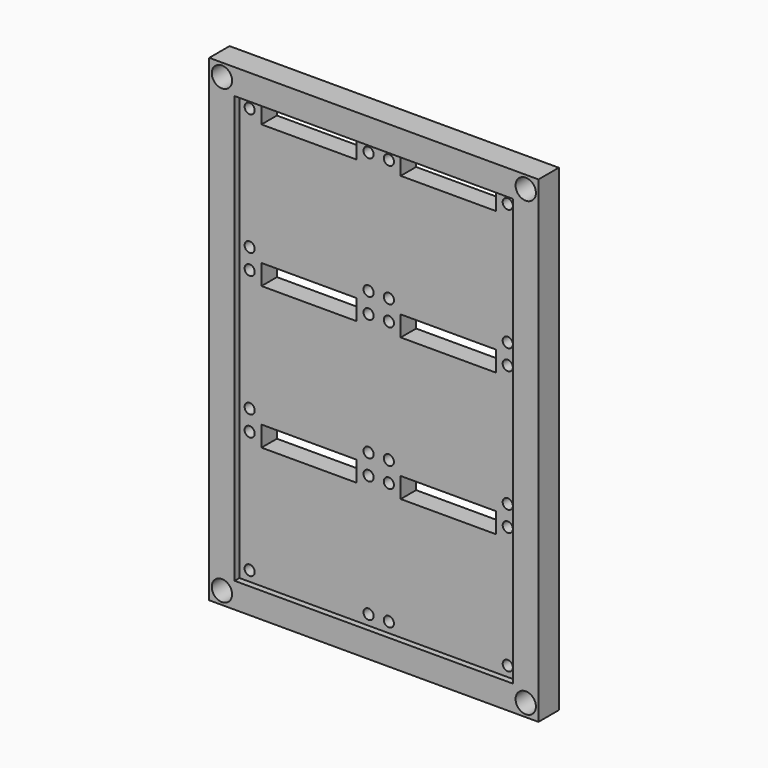
from build123d import *

# Parameters (mm, degrees)
SKETCH_W        = 64.8
SKETCH_H        = 94
PAD_DEPTH       = 5
POCKET_DEPTH    = 1.2
SKETCH002_R     = 1
POCKET001_DEPTH = 3.801
SKETCH003_W     = 18.75
SKETCH003_H     = 4
POCKET002_DEPTH = 3.801
SKETCH004_R     = 2
POCKET003_DEPTH = 5.001


with BuildPart() as part:
    # Sketch → Pad (new body)
    with BuildSketch(Plane.XZ):
        with Locations((32.4, 47)):
            Rectangle(SKETCH_W, SKETCH_H)
    extrude(amount=PAD_DEPTH)

    # Sketch001 (on Face6 of Pad) → Pocket (cut)
    with BuildSketch(Plane.XZ.offset(5)):
        Polygon((5, 5), (32.4, 5), (59.8, 5), (59.8, 33), (59.8, 61), (59.8, 89), (32.4, 89), (5, 89), (5, 61), (5, 33), align=None)
    extrude(amount=-POCKET_DEPTH, mode=Mode.SUBTRACT)

    # Sketch002 (on Face17 of Pocket) → Pocket001 (cut, through all)
    with BuildSketch(Plane.XZ.offset(3.8)):
        with Locations((7, 87)):
            Circle(SKETCH002_R)
        with Locations((30.4, 87)):
            Circle(SKETCH002_R)
        with Locations((34.4, 87)):
            Circle(SKETCH002_R)
        with Locations((57.8, 87)):
            Circle(SKETCH002_R)
        with Locations((7, 63)):
            Circle(SKETCH002_R)
        with Locations((30.4, 63)):
            Circle(SKETCH002_R)
        with Locations((34.4, 63)):
            Circle(SKETCH002_R)
        with Locations((57.8, 63)):
            Circle(SKETCH002_R)
        with Locations((57.8, 59)):
            Circle(SKETCH002_R)
        with Locations((34.4, 59)):
            Circle(SKETCH002_R)
        with Locations((30.4, 59)):
            Circle(SKETCH002_R)
        with Locations((7, 59)):
            Circle(SKETCH002_R)
        with Locations((7, 35)):
            Circle(SKETCH002_R)
        with Locations((7, 31)):
            Circle(SKETCH002_R)
        with Locations((30.4, 31)):
            Circle(SKETCH002_R)
        with Locations((30.4, 35)):
            Circle(SKETCH002_R)
        with Locations((34.4, 35)):
            Circle(SKETCH002_R)
        with Locations((34.4, 31)):
            Circle(SKETCH002_R)
        with Locations((57.8, 31)):
            Circle(SKETCH002_R)
        with Locations((57.8, 35)):
            Circle(SKETCH002_R)
        with Locations((7, 7)):
            Circle(SKETCH002_R)
        with Locations((30.4, 7)):
            Circle(SKETCH002_R)
        with Locations((34.4, 7)):
            Circle(SKETCH002_R)
        with Locations((57.8, 7)):
            Circle(SKETCH002_R)
    extrude(amount=-POCKET001_DEPTH, mode=Mode.SUBTRACT)

    # Sketch003 (on Face41 of Pocket001) → Pocket002 (cut, through all)
    with BuildSketch(Plane.XZ.offset(3.8)):
        with Locations((18.7, 31)):
            Rectangle(SKETCH003_W, SKETCH003_H)
        with Locations((46.1, 31)):
            Rectangle(SKETCH003_W, SKETCH003_H)
        with Locations((18.7, 59)):
            Rectangle(SKETCH003_W, SKETCH003_H)
        with Locations((46.1, 59)):
            Rectangle(SKETCH003_W, SKETCH003_H)
        with Locations((18.7, 87)):
            Rectangle(SKETCH003_W, SKETCH003_H)
        with Locations((46.1, 87)):
            Rectangle(SKETCH003_W, SKETCH003_H)
    extrude(amount=-POCKET002_DEPTH, mode=Mode.SUBTRACT)

    # Sketch004 (on Face5 of Pocket002) → Pocket003 (cut, through all)
    with BuildSketch(Plane.XZ.offset(5)):
        with Locations((2.5, 2.5)):
            Circle(SKETCH004_R)
        with Locations((62.3, 2.5)):
            Circle(SKETCH004_R)
        with Locations((2.5, 91.5)):
            Circle(SKETCH004_R)
        with Locations((62.3, 91.5)):
            Circle(SKETCH004_R)
    extrude(amount=-POCKET003_DEPTH, mode=Mode.SUBTRACT)


solid = part.part
